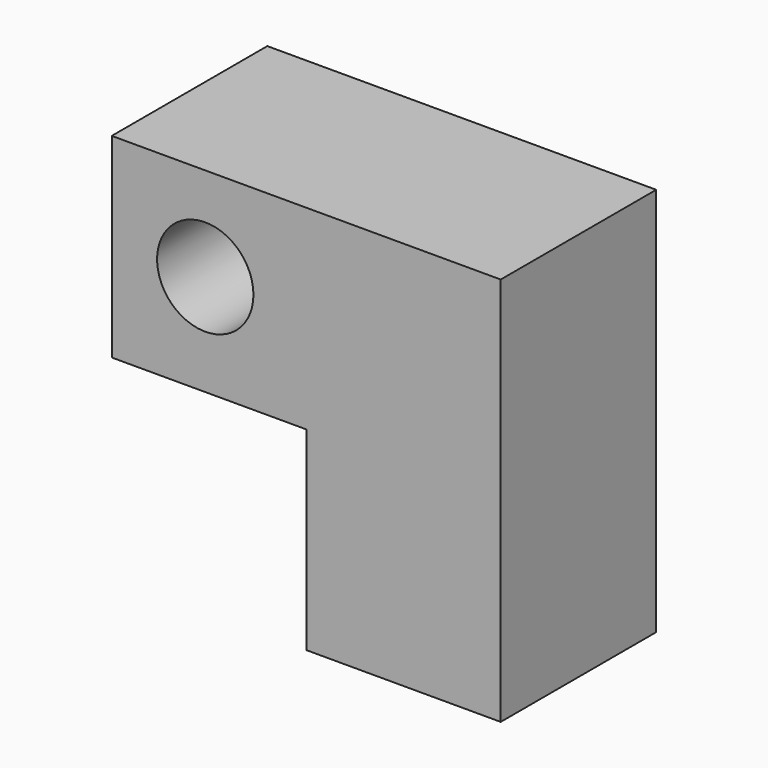
from build123d import *

# Parameters (mm, degrees)
F0_R     = 18.876469
F0_W     = 76.189078
F0_H     = 76.160066
F1_DEPTH = 76.2
F2_R     = 18.876469
F3_DEPTH = 31.496


with BuildPart() as f1:
    # F0 (on Front) → F1 (new body)
    with BuildSketch(Plane.XZ):
        Polygon((76.189078, 76.495655), (-76.260686, 76.495655), (-76.260686, 0), (0, 0), (76.189078, 0), align=None)
        with Locations((-39.615575, 39.702263)):
            Circle(F0_R, mode=Mode.SUBTRACT)
        Polygon((76.189078, 76.495655), (-76.260686, 76.495655), (-76.260686, 0), (0, 0), (76.189078, 0), align=None)
        with Locations((-39.615575, 39.702263)):
            Circle(F0_R, mode=Mode.SUBTRACT)
        with Locations((38.094539, -38.080033)):
            Rectangle(F0_W, F0_H)
    extrude(amount=F1_DEPTH)

    # F2 (on Right) → F3 (cut)
    with BuildSketch(Plane.YZ):
        with Locations((-37.08962, -40.110841)):
            Circle(F2_R)
    extrude(amount=F3_DEPTH, mode=Mode.SUBTRACT)


solid = f1.part
